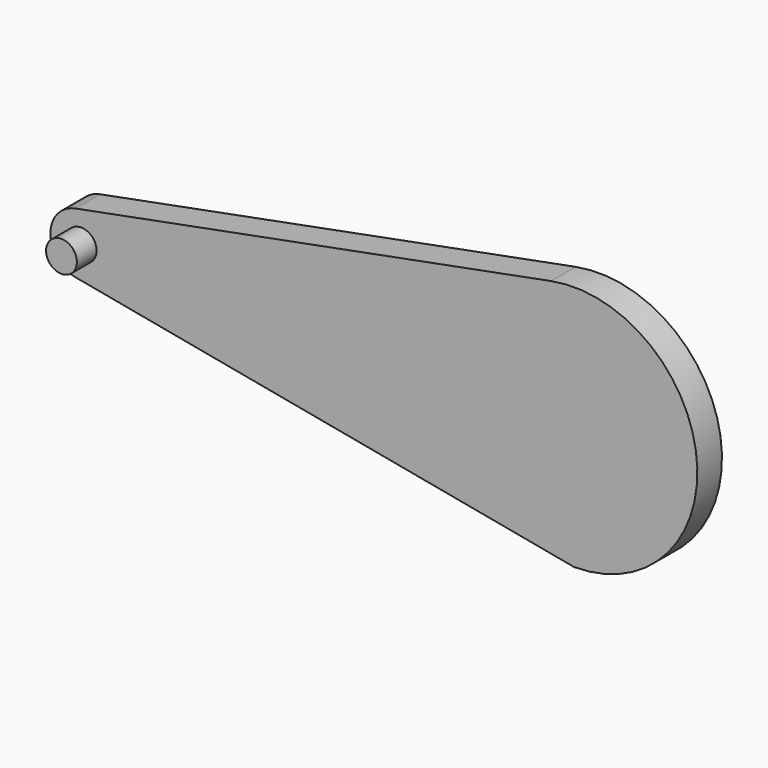
from build123d import *

# Parameters (mm, degrees)
F1_DEPTH = 3.175
F2_R     = 1.5875
F3_DEPTH = 2.54


with BuildPart() as f1:
    # F0 (on Front) → F1 (new body)
    with BuildSketch(Plane.XZ):
        with BuildLine():
            Line((-51.3818325876, -3.121233064), (-4.5789436396, -11.8458125574))
            Line((-4.5789436396, -11.8458125574), (0.0033310249, -12.6999995632))
            ThreePointArc((0.0033310249, -12.6999995632), (12.6434077752, 1.1975975242), (-2.38125, 12.4747604561))
            Line((-2.38125, 12.4747604561), (-51.3953125, 3.118690114))
            ThreePointArc((-51.3953125, 3.118690114), (-53.9749925915, -0.006858838), (-51.3818325876, -3.121233064))
        make_face()
    extrude(amount=F1_DEPTH)

    # F2 (on face) → F3 (join)
    with BuildSketch(Plane.XZ.offset(3.175)):
        with Locations((-50.8, 0)):
            Circle(F2_R)
    extrude(amount=F3_DEPTH)


solid = f1.part
